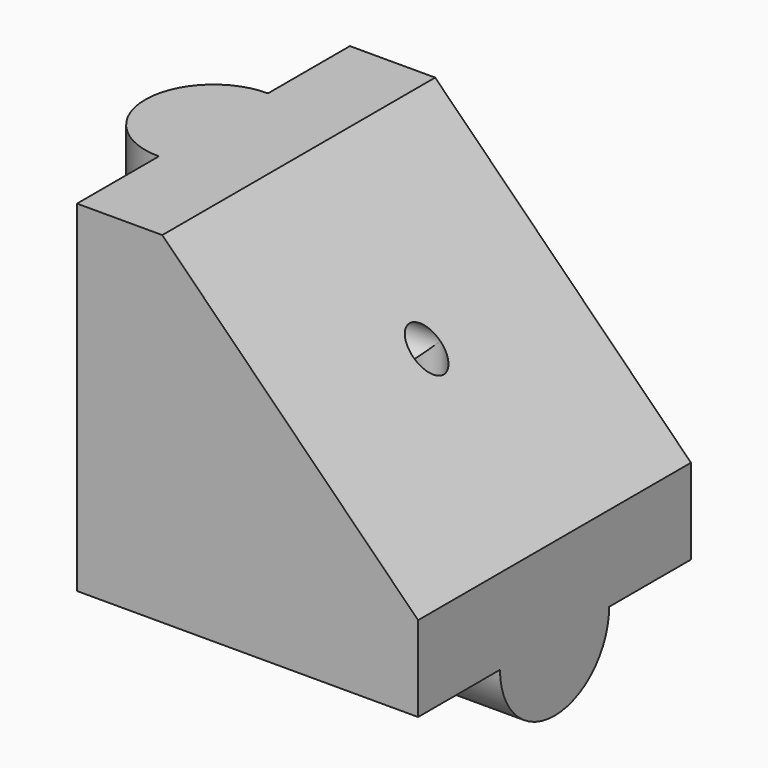
from build123d import *

# Parameters (mm, degrees)
F1_DEPTH = 20
F3_DEPTH = 40
F5_DEPTH = 40
F6_R     = 2
F7_DEPTH = 50
F8_R     = 2
F9_DEPTH = 50


with BuildPart() as f1:
    # F0 (on Front) → F1 (new body, symmetric)
    with BuildSketch(Plane.XZ):
        Polygon((0, 40), (0, 0), (40, 0), (40, 10), (10, 40), align=None)
    extrude(amount=F1_DEPTH, both=True)

    # F2 (on face) → F3 (join)
    with BuildSketch(Plane(origin=(0, 0, 0), x_dir=(0, -1, 0), z_dir=(-1, 0, 0))):
        with BuildLine():
            ThreePointArc((-8, 0), (0, -8), (8, 0))
            Line((8, 0), (-8, 0))
        make_face()
    extrude(amount=-F3_DEPTH)

    # F4 (on face) → F5 (join)
    with BuildSketch(Plane(origin=(0, 0, 0), x_dir=(1, 0, 0), z_dir=(0, 0, -1))):
        with BuildLine():
            ThreePointArc((0, -8), (5.6568542495, -5.6568542495), (8, 0))
            ThreePointArc((8, 0), (5.6568542495, 5.6568542495), (0, 8))
            ThreePointArc((0, 8), (-8, 0), (0, -8))
        make_face()
    extrude(amount=-F5_DEPTH)

    # F6 (on face) → F7 (cut, symmetric)
    with BuildSketch(Plane(origin=(0, 0, 0), x_dir=(0, -1, 0), z_dir=(-1, 0, 0))):
        with Locations((0, 25)):
            Circle(F6_R)
    extrude(amount=F7_DEPTH, both=True, mode=Mode.SUBTRACT)

    # F8 (on face) → F9 (cut, symmetric)
    with BuildSketch(Plane(origin=(0, 0, 0), x_dir=(1, 0, 0), z_dir=(0, 0, -1))):
        with Locations((25, 0)):
            Circle(F8_R)
    extrude(amount=F9_DEPTH, both=True, mode=Mode.SUBTRACT)


solid = f1.part
